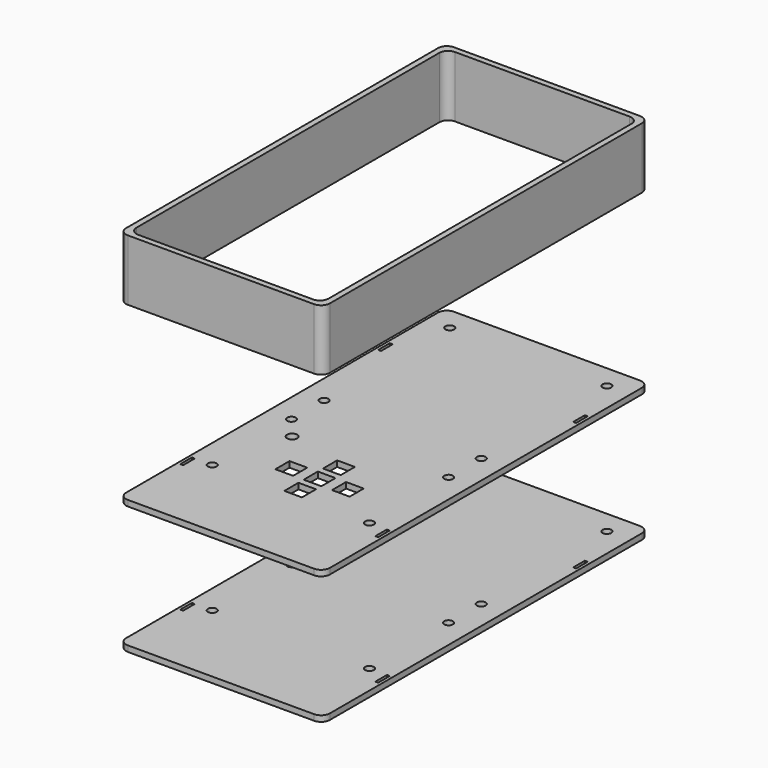
from build123d import *

# Parameters (mm, degrees)
SKETCH_R      = 1.5
SKETCH_W      = 1
SKETCH_H      = 5
PAD_DEPTH     = 2
SKETCH001_R   = 1.5
SKETCH001_R_2 = 1.75
SKETCH001_W   = 1
SKETCH001_H   = 5
SKETCH001_W_2 = 6.093706
SKETCH001_H_2 = 6.084627
SKETCH001_W_3 = 6.078103
SKETCH001_H_3 = 6.073768
SKETCH001_W_4 = 6.110218
SKETCH001_H_4 = 6.073563
SKETCH001_W_5 = 6.072533
SKETCH001_H_5 = 6.036934
SKETCH001_W_6 = 6.048541
SKETCH001_H_6 = 6.058193
PAD001_DEPTH  = 2
PAD002_DEPTH  = 2
PAD003_DEPTH  = 21


with BuildPart() as body:
    # Sketch → Pad (new body)
    with BuildSketch(Plane.XY):
        with BuildLine():
            ThreePointArc((-32, 70), (-34.12132, 69.12132), (-35, 67))
            Line((-35, -67), (-35, 67))
            ThreePointArc((-35, -67), (-34.12132, -69.12132), (-32, -70))
            Line((32, -70), (-32, -70))
            ThreePointArc((32, -70), (34.12132, -69.12132), (35, -67))
            Line((35, 67), (35, -67))
            ThreePointArc((35, 67), (34.12132, 69.12132), (32, 70))
            Line((-32, 70), (32, 70))
        make_face()
        with Locations((-27, 62)):
            Circle(SKETCH_R, mode=Mode.SUBTRACT)
        with Locations((27, 62)):
            Circle(SKETCH_R, mode=Mode.SUBTRACT)
        with Locations((-27, 8)):
            Circle(SKETCH_R, mode=Mode.SUBTRACT)
        with Locations((27, 8)):
            Circle(SKETCH_R, mode=Mode.SUBTRACT)
        with Locations((-27, -6)):
            Circle(SKETCH_R, mode=Mode.SUBTRACT)
        with Locations((27, -6)):
            Circle(SKETCH_R, mode=Mode.SUBTRACT)
        with Locations((-27, -40)):
            Circle(SKETCH_R, mode=Mode.SUBTRACT)
        with Locations((27, -40)):
            Circle(SKETCH_R, mode=Mode.SUBTRACT)
        with Locations((33.5, -42.5)):
            Rectangle(SKETCH_W, SKETCH_H, mode=Mode.SUBTRACT)
        with Locations((-33.5, -42.5)):
            Rectangle(SKETCH_W, SKETCH_H, mode=Mode.SUBTRACT)
        with Locations((33.5, 42.5)):
            Rectangle(SKETCH_W, SKETCH_H, mode=Mode.SUBTRACT)
        with Locations((-33.5, 42.5)):
            Rectangle(SKETCH_W, SKETCH_H, mode=Mode.SUBTRACT)
    extrude(amount=PAD_DEPTH)


with BuildPart() as body001:
    # Sketch001 → Pad001 (new body)
    with BuildSketch(Plane.XY):
        with BuildLine():
            ThreePointArc((-32, 70), (-34.12132, 69.12132), (-35, 67))
            Line((-35, -67), (-35, 67))
            ThreePointArc((-35, -67), (-34.12132, -69.12132), (-32, -70))
            Line((32, -70), (-32, -70))
            ThreePointArc((32, -70), (34.12132, -69.12132), (35, -67))
            Line((35, 67), (35, -67))
            ThreePointArc((35, 67), (34.12132, 69.12132), (32, 70))
            Line((-32, 70), (32, 70))
        make_face()
        with Locations((-27, 62)):
            Circle(SKETCH001_R, mode=Mode.SUBTRACT)
        with Locations((27, 62)):
            Circle(SKETCH001_R, mode=Mode.SUBTRACT)
        with Locations((-27, 8)):
            Circle(SKETCH001_R, mode=Mode.SUBTRACT)
        with Locations((27, 8)):
            Circle(SKETCH001_R, mode=Mode.SUBTRACT)
        with Locations((-27, -6)):
            Circle(SKETCH001_R, mode=Mode.SUBTRACT)
        with Locations((27, -6)):
            Circle(SKETCH001_R, mode=Mode.SUBTRACT)
        with Locations((-27, -40)):
            Circle(SKETCH001_R, mode=Mode.SUBTRACT)
        with Locations((27, -40)):
            Circle(SKETCH001_R, mode=Mode.SUBTRACT)
        with Locations((-20.594755, -13.72281)):
            Circle(SKETCH001_R_2, mode=Mode.SUBTRACT)
        with Locations((33.5, -42.5)):
            Rectangle(SKETCH001_W, SKETCH001_H, mode=Mode.SUBTRACT)
        with Locations((-33.5, -42.5)):
            Rectangle(SKETCH001_W, SKETCH001_H, mode=Mode.SUBTRACT)
        with Locations((33.5, 42.5)):
            Rectangle(SKETCH001_W, SKETCH001_H, mode=Mode.SUBTRACT)
        with Locations((-33.5, 42.5)):
            Rectangle(SKETCH001_W, SKETCH001_H, mode=Mode.SUBTRACT)
        with Locations((0.541264, -20.036884)):
            Rectangle(SKETCH001_W_2, SKETCH001_H_2, mode=Mode.SUBTRACT)
        with Locations((0.543229, -28.339119)):
            Rectangle(SKETCH001_W_3, SKETCH001_H_3, mode=Mode.SUBTRACT)
        with Locations((-9.167189, -28.341743)):
            Rectangle(SKETCH001_W_4, SKETCH001_H_4, mode=Mode.SUBTRACT)
        with Locations((10.253063, -28.341301)):
            Rectangle(SKETCH001_W_5, SKETCH001_H_5, mode=Mode.SUBTRACT)
        with Locations((0.537581, -36.671434)):
            Rectangle(SKETCH001_W_6, SKETCH001_H_6, mode=Mode.SUBTRACT)
    extrude(amount=PAD001_DEPTH)


with BuildPart() as body001_1:
    # Body001 placement: moved
    add(body001.part.moved(Location((0, 0, 44))))


with BuildPart() as body002:
    # Sketch002 → Pad002 (new body)
    with BuildSketch(Plane.XY):
        with BuildLine():
            ThreePointArc((-32, 70), (-34.12132, 69.12132), (-35, 67))
            Line((-35, -67), (-35, 67))
            ThreePointArc((-35, -67), (-34.12132, -69.12132), (-32, -70))
            Line((32, -70), (-32, -70))
            ThreePointArc((32, -70), (34.12132, -69.12132), (35, -67))
            Line((35, 67), (35, -67))
            ThreePointArc((35, 67), (34.12132, 69.12132), (32, 70))
            Line((-32, 70), (32, 70))
        make_face()
        with BuildLine():
            ThreePointArc((-30, 68), (-32.12132, 67.12132), (-33, 65))
            Line((-33, -65), (-33, 65))
            ThreePointArc((-33, -65), (-32.12132, -67.12132), (-30, -68))
            Line((30, -68), (-30, -68))
            ThreePointArc((30, -68), (32.12132, -67.12132), (33, -65))
            Line((33, 65), (33, -65))
            ThreePointArc((33, 65), (32.12132, 67.12132), (30, 68))
            Line((-30, 68), (30, 68))
        make_face(mode=Mode.SUBTRACT)
    extrude(amount=PAD002_DEPTH)

    # Sketch002 → Pad003 (join)
    with BuildSketch(Plane.XY):
        with BuildLine():
            ThreePointArc((-32, 70), (-34.12132, 69.12132), (-35, 67))
            Line((-35, -67), (-35, 67))
            ThreePointArc((-35, -67), (-34.12132, -69.12132), (-32, -70))
            Line((32, -70), (-32, -70))
            ThreePointArc((32, -70), (34.12132, -69.12132), (35, -67))
            Line((35, 67), (35, -67))
            ThreePointArc((35, 67), (34.12132, 69.12132), (32, 70))
            Line((-32, 70), (32, 70))
        make_face()
        with BuildLine():
            ThreePointArc((-30, 68), (-32.12132, 67.12132), (-33, 65))
            Line((-33, -65), (-33, 65))
            ThreePointArc((-33, -65), (-32.12132, -67.12132), (-30, -68))
            Line((30, -68), (-30, -68))
            ThreePointArc((30, -68), (32.12132, -67.12132), (33, -65))
            Line((33, 65), (33, -65))
            ThreePointArc((33, 65), (32.12132, 67.12132), (30, 68))
            Line((-30, 68), (30, 68))
        make_face(mode=Mode.SUBTRACT)
    extrude(amount=PAD003_DEPTH)


with BuildPart() as body002_1:
    # Body002 placement: moved
    add(body002.part.moved(Location((0, 0, 105))))


solid = Compound([body.part, body001_1.part, body002_1.part])
